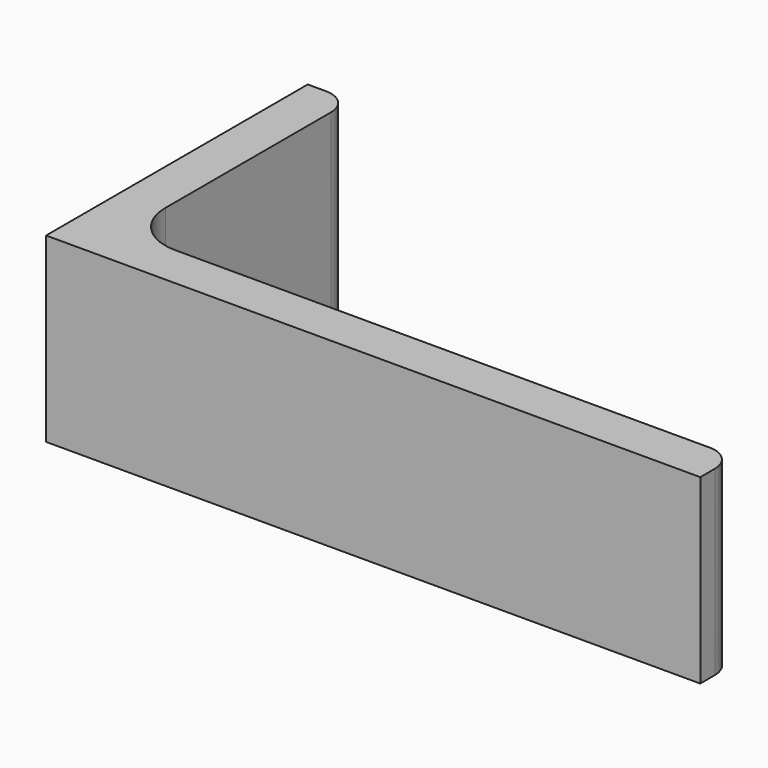
from build123d import *

# Parameters (mm, degrees)
EXTRUDE_DEPTH = 50


with BuildPart() as part:
    # Sketch → Extrude (new body)
    with BuildSketch(Plane.XY):
        with BuildLine():
            Line((0, 0), (180, 0))
            Line((180, 0), (180, 5))
            ThreePointArc((180, 5), (177.949747, 9.949747), (173, 12))
            Line((173, 12), (26, 12))
            ThreePointArc((12, 26), (16.100505, 16.100505), (26, 12))
            Line((12, 83), (12, 26))
            ThreePointArc((12, 83), (9.949747, 87.949747), (5, 90))
            Line((0, 90), (5, 90))
            Line((0, 0), (0, 90))
        make_face()
    extrude(amount=EXTRUDE_DEPTH)


solid = part.part
